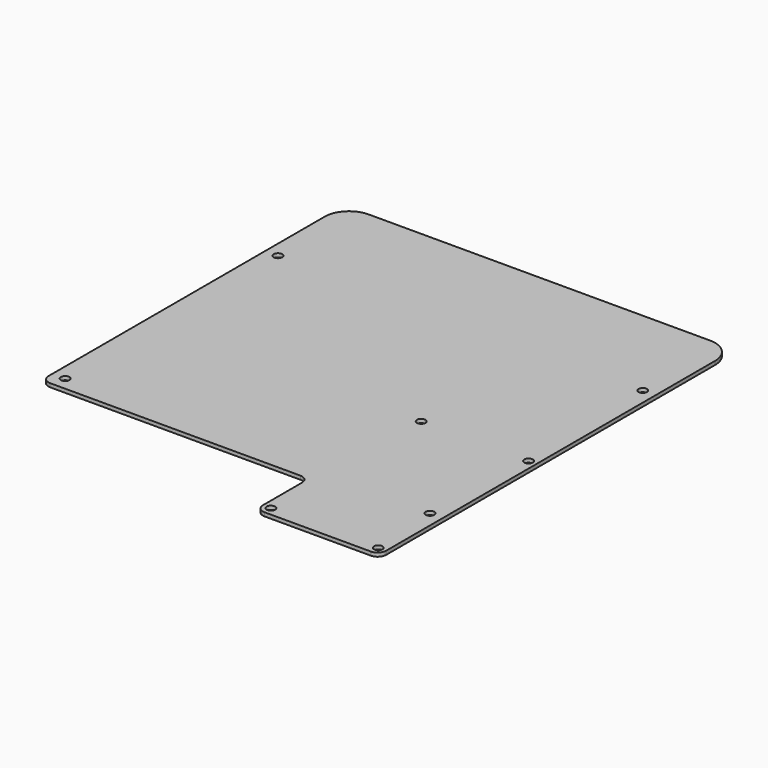
from build123d import *

# Parameters (mm, degrees)
F0_W     = 160
F0_H     = 155
F0_R     = 1.75
F1_DEPTH = 1.5
F2_W     = 50.5
F2_H     = 27
F3_DEPTH = 1.5
F4_R     = 1.75
F5_DEPTH = 25
F6_R     = 3.5
F7_R     = 10


with BuildPart() as f1:
    # F0 (on Top) → F1 (new body)
    with BuildSketch(Plane.XY):
        Rectangle(F0_W, F0_H)
        with Locations((-74.75, -72)):
            Circle(F0_R, mode=Mode.SUBTRACT)
        with Locations((74.75, -72)):
            Circle(F0_R, mode=Mode.SUBTRACT)
        with Locations((-74.75, 37)):
            Circle(F0_R, mode=Mode.SUBTRACT)
        with Locations((74.75, 37)):
            Circle(F0_R, mode=Mode.SUBTRACT)
    extrude(amount=F1_DEPTH)

    # F2 (on Top) → F3 (join)
    with BuildSketch(Plane.XY):
        with Locations((54.75, -91)):
            Rectangle(F2_W, F2_H)
    extrude(amount=F3_DEPTH)

    # F4 (on face) → F5 (cut)
    with BuildSketch(Plane.XY.offset(1.5)):
        with Locations((76.75, -101)):
            Circle(F4_R)
        with Locations((32.75, -101)):
            Circle(F4_R)
        with Locations((32.75, -24)):
            Circle(F4_R)
        with Locations((76.75, -24)):
            Circle(F4_R)
    extrude(amount=-F5_DEPTH, mode=Mode.SUBTRACT)

    # F6
    f6_edges = [f1.edges().sort_by_distance(p)[0] for p in [
        (80, -104.5, 0.75),
        (29.5, -104.5, 0.75),
        (29.5, -77.5, 0.75),
        (-80, -77.5, 0.75),
    ]]
    fillet(f6_edges, radius=F6_R)

    # F7
    f7_edges = [f1.edges().sort_by_distance(p)[0] for p in [
        (80, 77.5, 0.75),
        (-80, 77.5, 0.75),
    ]]
    fillet(f7_edges, radius=F7_R)


solid = f1.part
